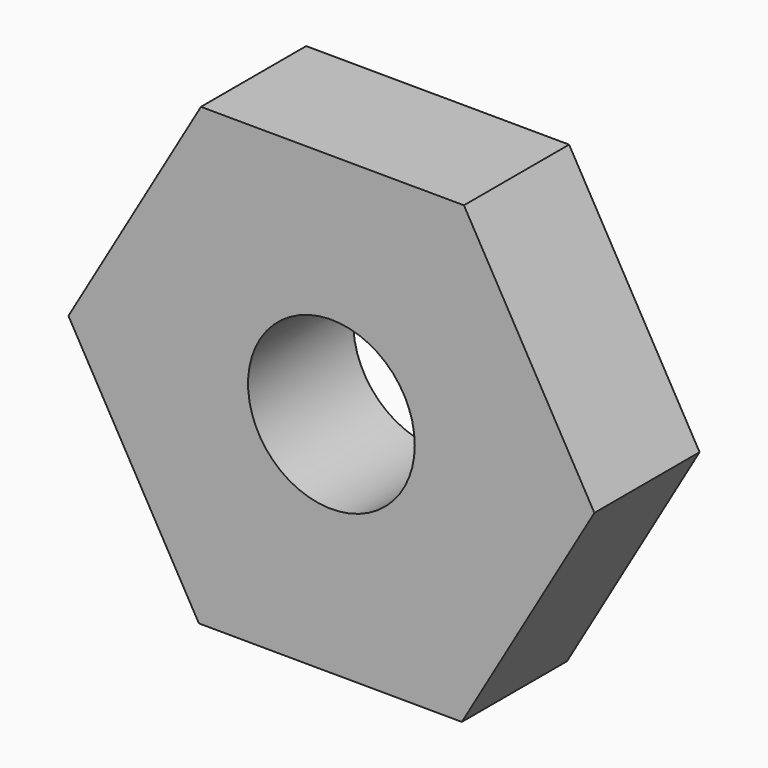
from build123d import *

# Parameters (mm, degrees)
F1_DEPTH = 6.35
F2_R     = 4.0259
F3_DEPTH = 25.4


with BuildPart() as f1:
    # F0 (on Front) → F1 (new body)
    with BuildSketch(Plane.XZ):
        Polygon((6.299983, -11.027249), (12.699869, -0.057679), (6.399886, 10.96957), (-6.299983, 11.027249), (-12.699869, 0.057679), (-6.399886, -10.96957), align=None)
    extrude(amount=F1_DEPTH)

    # F2 (on face) → F3 (cut)
    with BuildSketch(Plane.XZ.offset(6.35)):
        Circle(F2_R)
    extrude(amount=-F3_DEPTH, mode=Mode.SUBTRACT)


solid = f1.part
